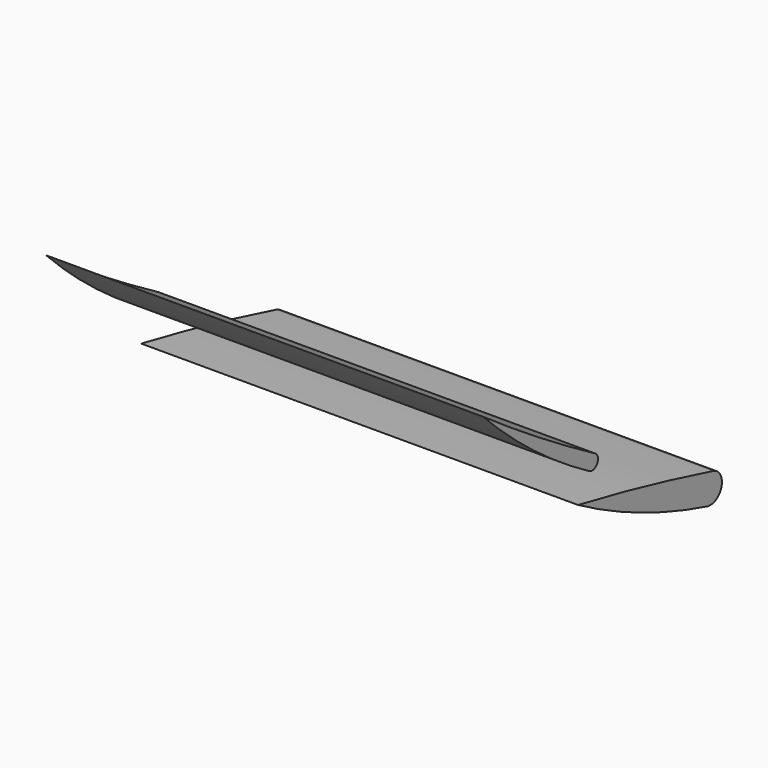
from build123d import *

# Parameters (mm, degrees)
F1_DEPTH = 762
F3_DEPTH = 762


with BuildPart() as f1:
    # F0 (on Right) → F1 (new body)
    with BuildSketch(Plane.YZ):
        with BuildLine():
            ThreePointArc((-583.790875, -1011.155457), (-446.814192, -1078.704882), (-302.192394, -1127.797367))
            ThreePointArc((-302.192394, -1127.797367), (-271.083874, -1109.836855), (-289.044386, -1078.728335))
            ThreePointArc((-289.044386, -1078.728335), (-435.802038, -1042.256739), (-583.790875, -1011.155457))
        make_face()
    extrude(amount=-F1_DEPTH)


with BuildPart() as f3:
    # F2 (on Right) → F3 (new body)
    with BuildSketch(Plane.YZ):
        with BuildLine():
            ThreePointArc((-791.204766, -791.204766), (-681.162954, -887.708845), (-559.466255, -969.02398))
            ThreePointArc((-559.466255, -969.02398), (-542.117733, -964.375457), (-546.766255, -947.026934))
            ThreePointArc((-546.766255, -947.026934), (-670.696611, -871.800056), (-791.204766, -791.204766))
        make_face()
    extrude(amount=-F3_DEPTH)


solid = Compound([f1.part, f3.part])
